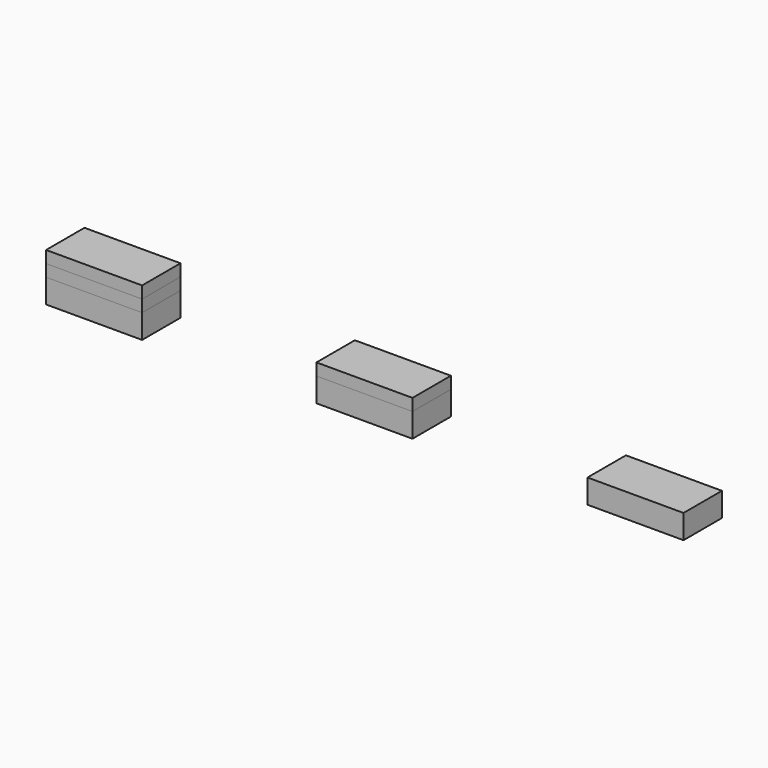
from build123d import *

# Parameters (mm, degrees)
F0_W      = 20
F0_H      = 10
F1_DEPTH  = 5
F2_W      = 20
F2_H      = 10
F3_DEPTH  = 5
F4_W      = 20
F4_H      = 10
F5_DEPTH  = 2.5
F6_W      = 20
F6_H      = 10
F7_DEPTH  = 2.5
F10_W     = 20
F10_H     = 10
F11_DEPTH = 5
F12_W     = 20
F12_H     = 10
F13_DEPTH = 2.5


with BuildPart() as f1:
    # F0 (on Top) → F1 (new body)
    with BuildSketch(Plane.XY):
        with Locations((-56.0887241736, -0.2901825937)):
            Rectangle(F0_W, F0_H)
    extrude(amount=F1_DEPTH)


with BuildPart() as f3:
    # F2 (on Top) → F3 (new body)
    with BuildSketch(Plane.XY):
        with Locations((56.7486034706, -0.3627343103)):
            Rectangle(F2_W, F2_H)
    extrude(amount=F3_DEPTH)


with BuildPart() as f5:
    # F4 (on face) → F5 (new body)
    with BuildSketch(Plane.XY.offset(5)):
        with Locations((-56.0887241736, -0.2901825937)):
            Rectangle(F4_W, F4_H)
    extrude(amount=F5_DEPTH)


with BuildPart() as f7:
    # F6 (on face) → F7 (new body)
    with BuildSketch(Plane.XY.offset(7.5)):
        with Locations((-56.0887241736, -0.2901825937)):
            Rectangle(F6_W, F6_H)
    extrude(amount=F7_DEPTH)


with BuildPart() as f8_1:
    # F8: copy of F3
    add(f3.part.moved(Location((5, 5, 5))))


with BuildPart() as f11:
    # F10 (on Top) → F11 (new body)
    with BuildSketch(Plane.XY):
        Rectangle(F10_W, F10_H)
    extrude(amount=F11_DEPTH)


with BuildPart() as f13:
    # F12 (on face) → F13 (new body)
    with BuildSketch(Plane.XY.offset(5)):
        Rectangle(F12_W, F12_H)
    extrude(amount=F13_DEPTH)


solid = Compound([f1.part, f3.part, f5.part, f7.part, f11.part, f13.part])
